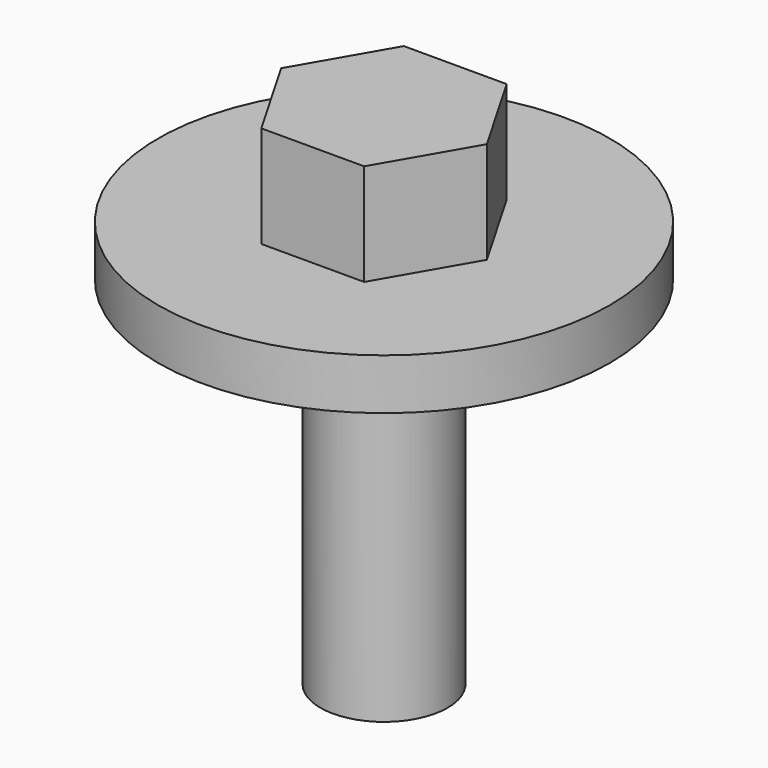
from build123d import *

# Parameters (mm, degrees)
F0_R     = 8.875
F1_DEPTH = 2
F2_R     = 2.5
F3_DEPTH = 14
F5_DEPTH = 4


with BuildPart() as f1:
    # F0 (on Top) → F1 (new body)
    with BuildSketch(Plane.XY):
        Circle(F0_R)
    extrude(amount=F1_DEPTH)

    # F2 (on face) → F3 (join)
    with BuildSketch(Plane(origin=(0, 0, 0), x_dir=(1, 0, 0), z_dir=(0, 0, -1))):
        Circle(F2_R)
    extrude(amount=F3_DEPTH)

    # F4 (on face) → F5 (join)
    with BuildSketch(Plane.XY.offset(2)):
        Polygon((-4.041452, 0), (-2.020726, -3.5), (2.020726, -3.5), (4.041452, 0), (2.020726, 3.5), (-2.020726, 3.5), align=None)
    extrude(amount=F5_DEPTH)


solid = f1.part
